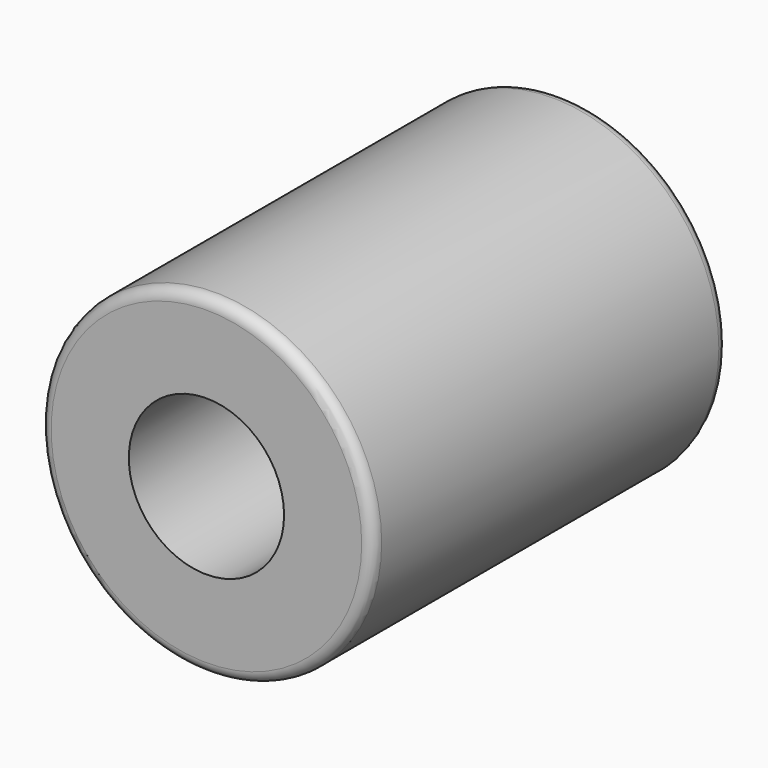
from build123d import *

# Parameters (mm, degrees)
F6_R     = 15
F0_DEPTH = 40
F1_R     = 1
F2_R     = 7
F3_DEPTH = 20
F4_R     = 5
F5_DEPTH = 20


with BuildPart() as f0:
    # F6 (on Front) → F0 (new body)
    with BuildSketch(Plane.XZ):
        Circle(F6_R)
    extrude(amount=-F0_DEPTH)

    # F1
    f1_edges = [f0.edges().sort_by_distance(p)[0] for p in [
        (-15, 0, 0),
        (-15, 40, 0),
    ]]
    fillet(f1_edges, radius=F1_R)

    # F2 (on face) → F3 (cut)
    with BuildSketch(Plane.XZ):
        Circle(F2_R)
    extrude(amount=-F3_DEPTH, mode=Mode.SUBTRACT)

    # F4 (on face) → F5 (cut)
    with BuildSketch(Plane(origin=(0, 40, 0), x_dir=(-1, 0, 0), z_dir=(0, 1, 0))):
        Circle(F4_R)
    extrude(amount=-F5_DEPTH, mode=Mode.SUBTRACT)


solid = f0.part
